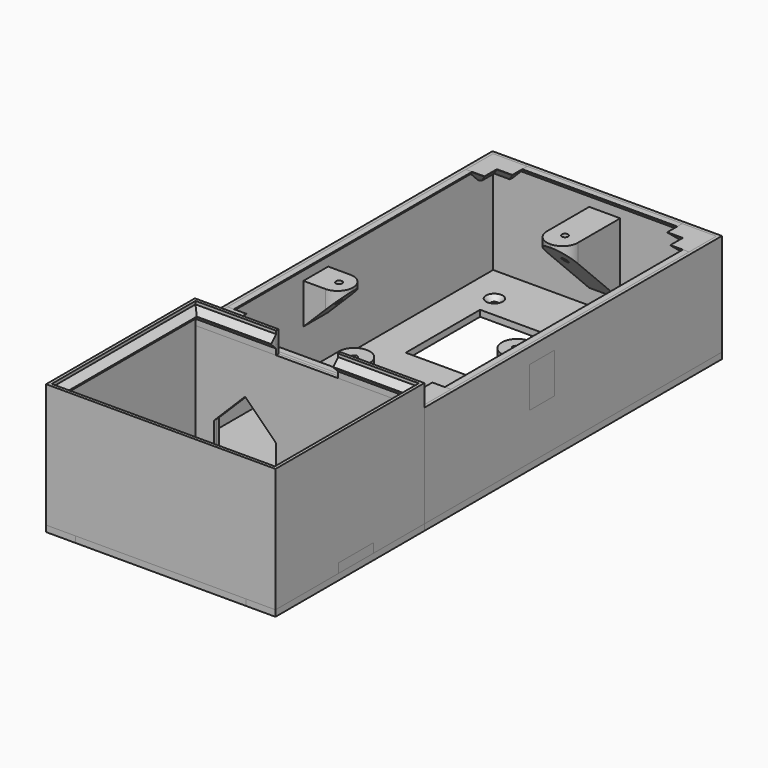
from build123d import *

# Parameters (mm, degrees)
BOX028_W                   = 72
BOX028_H                   = 2
BOX028_DEPTH               = 2
CHAMFER009_SIZE            = 1.99
BOX037_W                   = 26
BOX037_H                   = 16
BOX037_DEPTH               = 2
BOX031_W                   = 2
BOX031_H                   = 118
BOX031_DEPTH               = 2
CHAMFER008_SIZE            = 1.9
BOX030_W                   = 72
BOX030_H                   = 2
BOX030_DEPTH               = 2
CHAMFER028_SIZE            = 1.9
BOX029_W                   = 2
BOX029_H                   = 118
BOX029_DEPTH               = 2
CHAMFER010_SIZE            = 1.9
BOX046_W                   = 72
BOX046_H                   = 2
BOX046_DEPTH               = 2
CHAMFER011_SIZE            = 1.9
BOX024_W                   = 5
BOX024_H                   = 5
BOX024_DEPTH               = 5
BOX025_W                   = 11
BOX025_H                   = 11
BOX025_DEPTH               = 5
CHAMFER004_SIZE            = 4.9
CHAMFER013_SIZE            = 0.9
BOX048_W                   = 5
BOX048_H                   = 5
BOX048_DEPTH               = 5
BOX047_W                   = 11
BOX047_H                   = 11
BOX047_DEPTH               = 5
CHAMFER012_SIZE            = 4.9
CHAMFER012_PLACEMENT_ANGLE = 90
CHAMFER014_SIZE            = 0.9
BOX034_W                   = 5
BOX034_H                   = 5
BOX034_DEPTH               = 5
BOX035_W                   = 11
BOX035_H                   = 11
BOX035_DEPTH               = 5
CHAMFER015_SIZE            = 4.9
CHAMFER016_SIZE            = 0.9
CHAMFER016_PLACEMENT_ANGLE = 180
BOX049_W                   = 5
BOX049_H                   = 5
BOX049_DEPTH               = 5
BOX050_W                   = 11
BOX050_H                   = 11
BOX050_DEPTH               = 5
CHAMFER017_SIZE            = 4.9
CHAMFER018_SIZE            = 0.9
CHAMFER018_PLACEMENT_ANGLE = -90
BOX055_W                   = 20
BOX055_H                   = 10
BOX055_DEPTH               = 20
CHAMFER034_SIZE            = 9.99
BOX054_W                   = 20
BOX054_H                   = 10
BOX054_DEPTH               = 20
CHAMFER033_SIZE            = 9.99
BOX001_W                   = 72
BOX001_H                   = 118
BOX001_DEPTH               = 35
BOX_W                      = 74
BOX_H                      = 120
BOX_DEPTH                  = 35
BOX056_W                   = 20
BOX056_H                   = 10
BOX056_DEPTH               = 10
BOX039_W                   = 68
BOX039_H                   = 54
BOX039_DEPTH               = 4.1
BOX038_W                   = 74
BOX038_H                   = 60
BOX038_DEPTH               = 4.1
CHAMFER021_SIZE            = 2
CHAMFER022_SIZE            = 2
BOX033_W                   = 72
BOX033_H                   = 58
BOX033_DEPTH               = 42
BOX032_W                   = 74
BOX032_H                   = 60
BOX032_DEPTH               = 42
BOX045_W                   = 72
BOX045_H                   = 1
BOX045_DEPTH               = 4
CHAMFER027_SIZE            = 0.99
BOX061_W                   = 74
BOX061_H                   = 5
BOX061_DEPTH               = 2
BOX062_W                   = 74
BOX062_H                   = 5
BOX062_DEPTH               = 2
BOX074_W                   = 13
BOX074_H                   = 15
BOX074_DEPTH               = 10
BOX073_W                   = 13
BOX073_H                   = 15
BOX073_DEPTH               = 10
BOX072_W                   = 72
BOX072_H                   = 5
BOX072_DEPTH               = 10
CYLINDER011_R              = 1.2
CYLINDER011_DEPTH          = 10
CYLINDER010_R              = 1.2
CYLINDER010_DEPTH          = 10
CYLINDER001_R              = 2
CYLINDER001_DEPTH          = 10
CYLINDER_R                 = 2
CYLINDER_DEPTH             = 10
BOX058_W                   = 74
BOX058_H                   = 14
BOX058_DEPTH               = 5
CHAMFER036_SIZE            = 1.5
CHAMFER037_SIZE            = 1.5
CYLINDER002_R              = 1
CYLINDER002_DEPTH          = 40
BOX040_W                   = 10
BOX040_H                   = 23
BOX040_DEPTH               = 23
CHAMFER019_SIZE            = 22
FILLET001_R                = 4.9
CYLINDER004_R              = 1
CYLINDER004_DEPTH          = 40
BOX051_W                   = 13
BOX051_H                   = 10
BOX051_DEPTH               = 13
CHAMFER029_SIZE            = 12
FILLET002_R                = 4.9
CYLINDER005_R              = 1
CYLINDER005_DEPTH          = 40
BOX052_W                   = 13
BOX052_H                   = 10
BOX052_DEPTH               = 13
CHAMFER030_SIZE            = 12
FILLET003_R                = 4.9
CYLINDER003_R              = 1
CYLINDER003_DEPTH          = 40
BOX041_W                   = 10
BOX041_H                   = 23
BOX041_DEPTH               = 23
CHAMFER020_SIZE            = 22
FILLET004_R                = 4.9
BOX075_W                   = 10
BOX075_H                   = 10
BOX075_DEPTH               = 10
BOX059_W                   = 9.5
BOX059_H                   = 60
BOX059_DEPTH               = 2
BOX076_W                   = 10
BOX076_H                   = 10
BOX076_DEPTH               = 10
BOX060_W                   = 9.5
BOX060_H                   = 60
BOX060_DEPTH               = 2
CYLINDER017_R              = 1.2
CYLINDER017_DEPTH          = 10
CYLINDER016_R              = 1.2
CYLINDER016_DEPTH          = 10
BOX071_W                   = 50
BOX071_H                   = 30
BOX071_DEPTH               = 10
BOX070_W                   = 12
BOX070_H                   = 12
BOX070_DEPTH               = 10
BOX069_W                   = 12
BOX069_H                   = 12
BOX069_DEPTH               = 10
BOX068_W                   = 12
BOX068_H                   = 12
BOX068_DEPTH               = 10
BOX067_W                   = 12
BOX067_H                   = 12
BOX067_DEPTH               = 10
CYLINDER015_R              = 1.3
CYLINDER015_DEPTH          = 10
CYLINDER014_R              = 1.3
CYLINDER014_DEPTH          = 10
BOX066_W                   = 40
BOX066_H                   = 25
BOX066_DEPTH               = 10
CYLINDER013_R              = 1.2
CYLINDER013_DEPTH          = 10
CYLINDER012_R              = 1.2
CYLINDER012_DEPTH          = 10
BOX065_W                   = 74
BOX065_H                   = 120
BOX065_DEPTH               = 2
CHAMFER_SIZE               = 1.5
CHAMFER035_SIZE            = 1.5
FILLET_R                   = 5
CHAMFER038_SIZE            = 1.5
CHAMFER039_SIZE            = 1.5


with BuildPart() as chamfer009:
    # Box028 → Box028 (new body)
    with BuildSketch(Plane(origin=(1, 1, 33), x_dir=(1, 0, 0), z_dir=(0, 0, 1))):
        with Locations((36, 1)):
            Rectangle(BOX028_W, BOX028_H)
    extrude(amount=BOX028_DEPTH)

    # Chamfer009
    chamfer009_edges = [chamfer009.edges().sort_by_distance(p)[0] for p in [
        (37, 3, 33),
    ]]
    chamfer(chamfer009_edges, length=CHAMFER009_SIZE)


with BuildPart() as cube028:
    # Box037 → Box037 (new body)
    with BuildSketch(Plane(origin=(24, -38, 0), x_dir=(1, 0, 0), z_dir=(0, 0, 1))):
        with Locations((13, 8)):
            Rectangle(BOX037_W, BOX037_H)
    extrude(amount=BOX037_DEPTH)


with BuildPart() as chamfer008:
    # Box031 → Box031 (new body)
    with BuildSketch(Plane(origin=(71, 1, 33), x_dir=(1, 0, 0), z_dir=(0, 0, 1))):
        with Locations((1, 59)):
            Rectangle(BOX031_W, BOX031_H)
    extrude(amount=BOX031_DEPTH)

    # Chamfer008
    chamfer008_edges = [chamfer008.edges().sort_by_distance(p)[0] for p in [
        (71, 60, 33),
    ]]
    chamfer(chamfer008_edges, length=CHAMFER008_SIZE)


with BuildPart() as chamfer028:
    # Box030 → Box030 (new body)
    with BuildSketch(Plane(origin=(1, 117, 33), x_dir=(1, 0, 0), z_dir=(0, 0, 1))):
        with Locations((36, 1)):
            Rectangle(BOX030_W, BOX030_H)
    extrude(amount=BOX030_DEPTH)

    # Chamfer028
    chamfer028_edges = [chamfer028.edges().sort_by_distance(p)[0] for p in [
        (37, 117, 33),
    ]]
    chamfer(chamfer028_edges, length=CHAMFER028_SIZE)


with BuildPart() as chamfer010:
    # Box029 → Box029 (new body)
    with BuildSketch(Plane(origin=(1, 1, 33), x_dir=(1, 0, 0), z_dir=(0, 0, 1))):
        with Locations((1, 59)):
            Rectangle(BOX029_W, BOX029_H)
    extrude(amount=BOX029_DEPTH)

    # Chamfer010
    chamfer010_edges = [chamfer010.edges().sort_by_distance(p)[0] for p in [
        (3, 60, 33),
    ]]
    chamfer(chamfer010_edges, length=CHAMFER010_SIZE)


with BuildPart() as chamfer011:
    # Box046 → Box046 (new body)
    with BuildSketch(Plane(origin=(1, 1, 33), x_dir=(1, 0, 0), z_dir=(0, 0, 1))):
        with Locations((36, 1)):
            Rectangle(BOX046_W, BOX046_H)
    extrude(amount=BOX046_DEPTH)

    # Chamfer011
    chamfer011_edges = [chamfer011.edges().sort_by_distance(p)[0] for p in [
        (37, 3, 33),
    ]]
    chamfer(chamfer011_edges, length=CHAMFER011_SIZE)


with BuildPart() as cube019:
    # Box024 → Box024 (new body)
    with BuildSketch(Plane(origin=(63, 109, 30), x_dir=(1, 0, 0), z_dir=(0, 0, 1))):
        with Locations((2.5, 2.5)):
            Rectangle(BOX024_W, BOX024_H)
    extrude(amount=BOX024_DEPTH)


with BuildPart() as chamfer013:
    # Box025 → Box025 (new body)
    with BuildSketch(Plane(origin=(63, 109, 30), x_dir=(1, 0, 0), z_dir=(0, 0, 1))):
        with Locations((5.5, 5.5)):
            Rectangle(BOX025_W, BOX025_H)
    extrude(amount=BOX025_DEPTH)

    # Cut012: cut Cube019
    add(cube019.part, mode=Mode.SUBTRACT)

    # Chamfer004
    chamfer004_edges = [chamfer013.edges().sort_by_distance(p)[0] for p in [
        (63, 117, 30),
        (65.5, 114, 30),
        (71, 109, 30),
        (68, 111.5, 30),
    ]]
    chamfer(chamfer004_edges, length=CHAMFER004_SIZE)


with BuildPart() as chamfer013_1:
    # Chamfer004 placement: moved
    add(chamfer013.part.moved(Location((-1, -1, 0))))

    # Chamfer013
    chamfer013_edges = [chamfer013_1.edges().sort_by_distance(p)[0] for p in [
        (69.4, 117.9, 30),
        (71.9, 115.4, 30),
    ]]
    chamfer(chamfer013_edges, length=CHAMFER013_SIZE)


with BuildPart() as cube037:
    # Box048 → Box048 (new body)
    with BuildSketch(Plane(origin=(63, 109, 30), x_dir=(1, 0, 0), z_dir=(0, 0, 1))):
        with Locations((2.5, 2.5)):
            Rectangle(BOX048_W, BOX048_H)
    extrude(amount=BOX048_DEPTH)


with BuildPart() as chamfer014:
    # Box047 → Box047 (new body)
    with BuildSketch(Plane(origin=(63, 109, 30), x_dir=(1, 0, 0), z_dir=(0, 0, 1))):
        with Locations((5.5, 5.5)):
            Rectangle(BOX047_W, BOX047_H)
    extrude(amount=BOX047_DEPTH)

    # Cut013: cut Cube037
    add(cube037.part, mode=Mode.SUBTRACT)

    # Chamfer012
    chamfer012_edges = [chamfer014.edges().sort_by_distance(p)[0] for p in [
        (63, 117, 30),
        (65.5, 114, 30),
        (71, 109, 30),
        (68, 111.5, 30),
    ]]
    chamfer(chamfer012_edges, length=CHAMFER012_SIZE)


with BuildPart() as chamfer014_1:
    # Chamfer012 placement: moved
    add(chamfer014.part.moved(Location((121, 45, 0))).rotate(Axis((121, 45, 0), (0, 0, 1)), CHAMFER012_PLACEMENT_ANGLE))

    # Chamfer014
    chamfer014_edges = [chamfer014_1.edges().sort_by_distance(p)[0] for p in [
        (2.1, 115.4, 30),
        (4.6, 117.9, 30),
    ]]
    chamfer(chamfer014_edges, length=CHAMFER014_SIZE)


with BuildPart() as cube029:
    # Box034 → Box034 (new body)
    with BuildSketch(Plane(origin=(63, 109, 30), x_dir=(1, 0, 0), z_dir=(0, 0, 1))):
        with Locations((2.5, 2.5)):
            Rectangle(BOX034_W, BOX034_H)
    extrude(amount=BOX034_DEPTH)


with BuildPart() as chamfer016:
    # Box035 → Box035 (new body)
    with BuildSketch(Plane(origin=(63, 109, 30), x_dir=(1, 0, 0), z_dir=(0, 0, 1))):
        with Locations((5.5, 5.5)):
            Rectangle(BOX035_W, BOX035_H)
    extrude(amount=BOX035_DEPTH)

    # Cut020: cut Cube029
    add(cube029.part, mode=Mode.SUBTRACT)

    # Chamfer015
    chamfer015_edges = [chamfer016.edges().sort_by_distance(p)[0] for p in [
        (63, 117, 30),
        (65.5, 114, 30),
        (71, 109, 30),
        (68, 111.5, 30),
    ]]
    chamfer(chamfer015_edges, length=CHAMFER015_SIZE)


with BuildPart() as chamfer016_1:
    # Chamfer015 placement: moved
    add(chamfer016.part.moved(Location((-1, -1, 0))))

    # Chamfer016
    chamfer016_edges = [chamfer016_1.edges().sort_by_distance(p)[0] for p in [
        (69.4, 117.9, 30),
        (71.9, 115.4, 30),
    ]]
    chamfer(chamfer016_edges, length=CHAMFER016_SIZE)


with BuildPart() as chamfer016_2:
    # Chamfer016 placement: moved
    add(chamfer016_1.part.moved(Location((74, 120, 0))).rotate(Axis((74, 120, 0), (0, 0, 1)), CHAMFER016_PLACEMENT_ANGLE))


with BuildPart() as cube031:
    # Box049 → Box049 (new body)
    with BuildSketch(Plane(origin=(63, 109, 30), x_dir=(1, 0, 0), z_dir=(0, 0, 1))):
        with Locations((2.5, 2.5)):
            Rectangle(BOX049_W, BOX049_H)
    extrude(amount=BOX049_DEPTH)


with BuildPart() as chamfer018:
    # Box050 → Box050 (new body)
    with BuildSketch(Plane(origin=(63, 109, 30), x_dir=(1, 0, 0), z_dir=(0, 0, 1))):
        with Locations((5.5, 5.5)):
            Rectangle(BOX050_W, BOX050_H)
    extrude(amount=BOX050_DEPTH)

    # Cut015: cut Cube031
    add(cube031.part, mode=Mode.SUBTRACT)

    # Chamfer017
    chamfer017_edges = [chamfer018.edges().sort_by_distance(p)[0] for p in [
        (63, 117, 30),
        (65.5, 114, 30),
        (71, 109, 30),
        (68, 111.5, 30),
    ]]
    chamfer(chamfer017_edges, length=CHAMFER017_SIZE)


with BuildPart() as chamfer018_1:
    # Chamfer017 placement: moved
    add(chamfer018.part.moved(Location((-1, -1, 0))))

    # Chamfer018
    chamfer018_edges = [chamfer018_1.edges().sort_by_distance(p)[0] for p in [
        (69.4, 117.9, 30),
        (71.9, 115.4, 30),
    ]]
    chamfer(chamfer018_edges, length=CHAMFER018_SIZE)


with BuildPart() as chamfer018_2:
    # Chamfer018 placement: moved
    add(chamfer018_1.part.moved(Location((-46, 74, 0))).rotate(Axis((-46, 74, 0), (0, 0, 1)), CHAMFER018_PLACEMENT_ANGLE))


with BuildPart() as chamfer034:
    # Box055 → Box055 (new body)
    with BuildSketch(Plane(origin=(47, -5, 0), x_dir=(1, 0, 0), z_dir=(0, 0, 1))):
        with Locations((10, 5)):
            Rectangle(BOX055_W, BOX055_H)
    extrude(amount=BOX055_DEPTH)

    # Chamfer034
    chamfer034_edges = [chamfer034.edges().sort_by_distance(p)[0] for p in [
        (47, 0, 20),
        (67, 0, 20),
    ]]
    chamfer(chamfer034_edges, length=CHAMFER034_SIZE)


with BuildPart() as chamfer033:
    # Box054 → Box054 (new body)
    with BuildSketch(Plane(origin=(7, -5, 0), x_dir=(1, 0, 0), z_dir=(0, 0, 1))):
        with Locations((10, 5)):
            Rectangle(BOX054_W, BOX054_H)
    extrude(amount=BOX054_DEPTH)

    # Chamfer033
    chamfer033_edges = [chamfer033.edges().sort_by_distance(p)[0] for p in [
        (7, 0, 20),
        (27, 0, 20),
    ]]
    chamfer(chamfer033_edges, length=CHAMFER033_SIZE)


with BuildPart() as obj1:
    # Box001 → Box001 (new body)
    with BuildSketch(Plane(origin=(1, 1, 0), x_dir=(1, 0, 0), z_dir=(0, 0, 1))):
        with Locations((36, 59)):
            Rectangle(BOX001_W, BOX001_H)
    extrude(amount=BOX001_DEPTH)


with BuildPart() as cut031:
    # Box → Box (new body)
    with BuildSketch(Plane.XY):
        with Locations((37, 60)):
            Rectangle(BOX_W, BOX_H)
    extrude(amount=BOX_DEPTH)

    # Cut: cut obj1
    add(obj1.part, mode=Mode.SUBTRACT)

    # Cut029: cut Chamfer033
    add(chamfer033.part, mode=Mode.SUBTRACT)

    # Cut030: cut Chamfer033
    add(chamfer033.part, mode=Mode.SUBTRACT)

    # Cut031: cut Chamfer034
    add(chamfer034.part, mode=Mode.SUBTRACT)


with BuildPart() as cube043:
    # Box056 → Box056 (new body)
    with BuildSketch(Plane(origin=(27, -5, 35), x_dir=(1, 0, 0), z_dir=(0, 0, 1))):
        with Locations((10, 5)):
            Rectangle(BOX056_W, BOX056_H)
    extrude(amount=BOX056_DEPTH)


with BuildPart() as obj2:
    # Box039 → Box039 (new body)
    with BuildSketch(Plane(origin=(3, -57, 0), x_dir=(1, 0, 0), z_dir=(0, 0, 1))):
        with Locations((34, 27)):
            Rectangle(BOX039_W, BOX039_H)
    extrude(amount=BOX039_DEPTH)


with BuildPart() as cut034:
    # Box038 → Box038 (new body)
    with BuildSketch(Plane(origin=(0, -60, 0), x_dir=(1, 0, 0), z_dir=(0, 0, 1))):
        with Locations((37, 30)):
            Rectangle(BOX038_W, BOX038_H)
    extrude(amount=BOX038_DEPTH)

    # Cut019: cut obj2
    add(obj2.part, mode=Mode.SUBTRACT)


with BuildPart() as cut034_1:
    # Cut019 placement: moved
    add(cut034.part.moved(Location((0, 0, 36.9))))

    # Chamfer021
    chamfer021_edges = [cut034_1.edges().sort_by_distance(p)[0] for p in [
        (37, -3, 41),
        (3, -30, 41),
        (37, -57, 41),
        (71, -30, 41),
    ]]
    chamfer(chamfer021_edges, length=CHAMFER021_SIZE)

    # Chamfer022
    chamfer022_edges = [cut034_1.edges().sort_by_distance(p)[0] for p in [
        (37, -3, 36.9),
        (3, -30, 36.9),
        (71, -30, 36.9),
        (37, -57, 36.9),
    ]]
    chamfer(chamfer022_edges, length=CHAMFER022_SIZE)

    # Cut034: cut Cube043
    add(cube043.part, mode=Mode.SUBTRACT)


with BuildPart() as obj3:
    # Box033 → Box033 (new body)
    with BuildSketch(Plane(origin=(1, -59, 0), x_dir=(1, 0, 0), z_dir=(0, 0, 1))):
        with Locations((36, 29)):
            Rectangle(BOX033_W, BOX033_H)
    extrude(amount=BOX033_DEPTH)


with BuildPart() as cut035:
    # Box032 → Box032 (new body)
    with BuildSketch(Plane(origin=(0, -60, 0), x_dir=(1, 0, 0), z_dir=(0, 0, 1))):
        with Locations((37, 30)):
            Rectangle(BOX032_W, BOX032_H)
    extrude(amount=BOX032_DEPTH)

    # Cut014: cut obj3
    add(obj3.part, mode=Mode.SUBTRACT)

    # Cut032: cut Chamfer033
    add(chamfer033.part, mode=Mode.SUBTRACT)

    # Cut033: cut Chamfer034
    add(chamfer034.part, mode=Mode.SUBTRACT)

    # Cut035: cut Cube043
    add(cube043.part, mode=Mode.SUBTRACT)


with BuildPart() as cut036:
    # Box045 → Box045 (new body)
    with BuildSketch(Plane(origin=(1, -1, 34), x_dir=(1, 0, 0), z_dir=(0, 0, 1))):
        with Locations((36, 0.5)):
            Rectangle(BOX045_W, BOX045_H)
    extrude(amount=BOX045_DEPTH)

    # Chamfer027
    chamfer027_edges = [cut036.edges().sort_by_distance(p)[0] for p in [
        (37, -1, 34),
    ]]
    chamfer(chamfer027_edges, length=CHAMFER027_SIZE)

    # Cut036: cut Cube043
    add(cube043.part, mode=Mode.SUBTRACT)


with BuildPart() as cube048:
    # Box061 → Box061 (new body)
    with BuildSketch(Plane(origin=(0, -5, 0), x_dir=(1, 0, 0), z_dir=(0, 0, 1))):
        with Locations((37, 2.5)):
            Rectangle(BOX061_W, BOX061_H)
    extrude(amount=BOX061_DEPTH)


with BuildPart() as cube049:
    # Box062 → Box062 (new body)
    with BuildSketch(Plane(origin=(0, -60, 0), x_dir=(1, 0, 0), z_dir=(0, 0, 1))):
        with Locations((37, 2.5)):
            Rectangle(BOX062_W, BOX062_H)
    extrude(amount=BOX062_DEPTH)


with BuildPart() as cube060:
    # Box074 → Box074 (new body)
    with BuildSketch(Plane(origin=(60, -35, 2), x_dir=(1, 0, 0), z_dir=(0, 0, 1))):
        with Locations((6.5, 7.5)):
            Rectangle(BOX074_W, BOX074_H)
    extrude(amount=BOX074_DEPTH)


with BuildPart() as cube059:
    # Box073 → Box073 (new body)
    with BuildSketch(Plane(origin=(1, -35, 2), x_dir=(1, 0, 0), z_dir=(0, 0, 1))):
        with Locations((6.5, 7.5)):
            Rectangle(BOX073_W, BOX073_H)
    extrude(amount=BOX073_DEPTH)


with BuildPart() as cube058:
    # Box072 → Box072 (new body)
    with BuildSketch(Plane(origin=(1, -25.5, 2), x_dir=(1, 0, 0), z_dir=(0, 0, 1))):
        with Locations((36, 2.5)):
            Rectangle(BOX072_W, BOX072_H)
    extrude(amount=BOX072_DEPTH)


with BuildPart() as cylinder011:
    # Cylinder011 → Cylinder011 (new body)
    with BuildSketch(Plane(origin=(63, -25, 0), x_dir=(1, 0, 0), z_dir=(0, 0, 1))):
        Circle(CYLINDER011_R)
    extrude(amount=CYLINDER011_DEPTH)


with BuildPart() as cylinder010:
    # Cylinder010 → Cylinder010 (new body)
    with BuildSketch(Plane(origin=(11, -25, 0), x_dir=(1, 0, 0), z_dir=(0, 0, 1))):
        Circle(CYLINDER010_R)
    extrude(amount=CYLINDER010_DEPTH)


with BuildPart() as cylinder001:
    # Cylinder001 → Cylinder001 (new body)
    with BuildSketch(Plane(origin=(56.25, -30, 0), x_dir=(1, 0, 0), z_dir=(0, 0, 1))):
        Circle(CYLINDER001_R)
    extrude(amount=CYLINDER001_DEPTH)


with BuildPart() as cylinder:
    # Cylinder → Cylinder (new body)
    with BuildSketch(Plane(origin=(17.75, -30, 0), x_dir=(1, 0, 0), z_dir=(0, 0, 1))):
        Circle(CYLINDER_R)
    extrude(amount=CYLINDER_DEPTH)


with BuildPart() as chamfer037:
    # Box058 → Box058 (new body)
    with BuildSketch(Plane(origin=(0, -34.5, 0), x_dir=(1, 0, 0), z_dir=(0, 0, 1))):
        with Locations((37, 7)):
            Rectangle(BOX058_W, BOX058_H)
    extrude(amount=BOX058_DEPTH)

    # Cut037: cut Cylinder
    add(cylinder.part, mode=Mode.SUBTRACT)

    # Cut038: cut Cylinder001
    add(cylinder001.part, mode=Mode.SUBTRACT)

    # Cut039: cut Cylinder010
    add(cylinder010.part, mode=Mode.SUBTRACT)

    # Cut040: cut Cylinder011
    add(cylinder011.part, mode=Mode.SUBTRACT)

    # Cut051: cut Cube058
    add(cube058.part, mode=Mode.SUBTRACT)

    # Cut052: cut Cube059
    add(cube059.part, mode=Mode.SUBTRACT)

    # Chamfer036
    chamfer036_edges = [chamfer037.edges().sort_by_distance(p)[0] for p in [
        (11, -26.2, 2),
        (12.1724, -25.255885, 2),
        (10.744115, -23.8276, 2),
    ]]
    chamfer(chamfer036_edges, length=CHAMFER036_SIZE)

    # Cut053: cut Cube060
    add(cube060.part, mode=Mode.SUBTRACT)

    # Chamfer037
    chamfer037_edges = [chamfer037.edges().sort_by_distance(p)[0] for p in [
        (63, -26.2, 2),
        (64.1724, -25.255885, 2),
        (62.744115, -23.8276, 2),
    ]]
    chamfer(chamfer037_edges, length=CHAMFER037_SIZE)


with BuildPart() as cylinder002:
    # Cylinder002 → Cylinder002 (new body)
    with BuildSketch(Plane(origin=(37, 18, 0), x_dir=(1, 0, 0), z_dir=(0, 0, 1))):
        Circle(CYLINDER002_R)
    extrude(amount=CYLINDER002_DEPTH)


with BuildPart() as fillet001:
    # Box040 → Box040 (new body)
    with BuildSketch(Plane(origin=(32, 0, 7), x_dir=(1, 0, 0), z_dir=(0, 0, 1))):
        with Locations((5, 11.5)):
            Rectangle(BOX040_W, BOX040_H)
    extrude(amount=BOX040_DEPTH)

    # Chamfer019
    chamfer019_edges = [fillet001.edges().sort_by_distance(p)[0] for p in [
        (37, 23, 7),
    ]]
    chamfer(chamfer019_edges, length=CHAMFER019_SIZE)

    # Cut021: cut Cylinder002
    add(cylinder002.part, mode=Mode.SUBTRACT)

    # Fillet001
    fillet001_edges = [fillet001.edges().sort_by_distance(p)[0] for p in [
        (32, 23, 29.5),
        (42, 23, 29.5),
    ]]
    fillet(fillet001_edges, radius=FILLET001_R)


with BuildPart() as cylinder004:
    # Cylinder004 → Cylinder004 (new body)
    with BuildSketch(Plane(origin=(8.5, 47.5, 0), x_dir=(1, 0, 0), z_dir=(0, 0, 1))):
        Circle(CYLINDER004_R)
    extrude(amount=CYLINDER004_DEPTH)


with BuildPart() as fillet002:
    # Box051 → Box051 (new body)
    with BuildSketch(Plane(origin=(0, 42.5, 17), x_dir=(1, 0, 0), z_dir=(0, 0, 1))):
        with Locations((6.5, 5)):
            Rectangle(BOX051_W, BOX051_H)
    extrude(amount=BOX051_DEPTH)

    # Chamfer029
    chamfer029_edges = [fillet002.edges().sort_by_distance(p)[0] for p in [
        (13, 47.5, 17),
    ]]
    chamfer(chamfer029_edges, length=CHAMFER029_SIZE)

    # Cut018: cut Cylinder004
    add(cylinder004.part, mode=Mode.SUBTRACT)

    # Fillet002
    fillet002_edges = [fillet002.edges().sort_by_distance(p)[0] for p in [
        (13, 42.5, 29.5),
        (13, 52.5, 29.5),
    ]]
    fillet(fillet002_edges, radius=FILLET002_R)


with BuildPart() as cylinder005:
    # Cylinder005 → Cylinder005 (new body)
    with BuildSketch(Plane(origin=(65.5, 47.5, 0), x_dir=(1, 0, 0), z_dir=(0, 0, 1))):
        Circle(CYLINDER005_R)
    extrude(amount=CYLINDER005_DEPTH)


with BuildPart() as fillet003:
    # Box052 → Box052 (new body)
    with BuildSketch(Plane(origin=(61, 42.5, 17), x_dir=(1, 0, 0), z_dir=(0, 0, 1))):
        with Locations((6.5, 5)):
            Rectangle(BOX052_W, BOX052_H)
    extrude(amount=BOX052_DEPTH)

    # Chamfer030
    chamfer030_edges = [fillet003.edges().sort_by_distance(p)[0] for p in [
        (61, 47.5, 17),
    ]]
    chamfer(chamfer030_edges, length=CHAMFER030_SIZE)

    # Cut022: cut Cylinder005
    add(cylinder005.part, mode=Mode.SUBTRACT)

    # Fillet003
    fillet003_edges = [fillet003.edges().sort_by_distance(p)[0] for p in [
        (61, 42.5, 29.5),
        (61, 52.5, 29.5),
    ]]
    fillet(fillet003_edges, radius=FILLET003_R)


with BuildPart() as cylinder003:
    # Cylinder003 → Cylinder003 (new body)
    with BuildSketch(Plane(origin=(37, 103, 0), x_dir=(1, 0, 0), z_dir=(0, 0, 1))):
        Circle(CYLINDER003_R)
    extrude(amount=CYLINDER003_DEPTH)


with BuildPart() as fillet004:
    # Box041 → Box041 (new body)
    with BuildSketch(Plane(origin=(32, 97, 7), x_dir=(1, 0, 0), z_dir=(0, 0, 1))):
        with Locations((5, 11.5)):
            Rectangle(BOX041_W, BOX041_H)
    extrude(amount=BOX041_DEPTH)

    # Chamfer020
    chamfer020_edges = [fillet004.edges().sort_by_distance(p)[0] for p in [
        (37, 97, 7),
    ]]
    chamfer(chamfer020_edges, length=CHAMFER020_SIZE)

    # Cut023: cut Cylinder003
    add(cylinder003.part, mode=Mode.SUBTRACT)

    # Fillet004
    fillet004_edges = [fillet004.edges().sort_by_distance(p)[0] for p in [
        (32, 97, 29.5),
        (42, 97, 29.5),
    ]]
    fillet(fillet004_edges, radius=FILLET004_R)


with BuildPart() as cube061:
    # Box075 → Box075 (new body)
    with BuildSketch(Plane(origin=(3, -30.5, 0), x_dir=(1, 0, 0), z_dir=(0, 0, 1))):
        with Locations((5, 5)):
            Rectangle(BOX075_W, BOX075_H)
    extrude(amount=BOX075_DEPTH)


with BuildPart() as cut054:
    # Box059 → Box059 (new body)
    with BuildSketch(Plane(origin=(0, -60, 0), x_dir=(1, 0, 0), z_dir=(0, 0, 1))):
        with Locations((4.75, 30)):
            Rectangle(BOX059_W, BOX059_H)
    extrude(amount=BOX059_DEPTH)

    # Cut054: cut Cube061
    add(cube061.part, mode=Mode.SUBTRACT)


with BuildPart() as cube062:
    # Box076 → Box076 (new body)
    with BuildSketch(Plane(origin=(61, -30.5, 0), x_dir=(1, 0, 0), z_dir=(0, 0, 1))):
        with Locations((5, 5)):
            Rectangle(BOX076_W, BOX076_H)
    extrude(amount=BOX076_DEPTH)


with BuildPart() as cut055:
    # Box060 → Box060 (new body)
    with BuildSketch(Plane(origin=(64.5, -60, 0), x_dir=(1, 0, 0), z_dir=(0, 0, 1))):
        with Locations((4.75, 30)):
            Rectangle(BOX060_W, BOX060_H)
    extrude(amount=BOX060_DEPTH)

    # Cut055: cut Cube062
    add(cube062.part, mode=Mode.SUBTRACT)


with BuildPart() as cylinder017:
    # Cylinder017 → Cylinder017 (new body)
    with BuildSketch(Plane(origin=(63, 107, 0), x_dir=(1, 0, 0), z_dir=(0, 0, 1))):
        Circle(CYLINDER017_R)
    extrude(amount=CYLINDER017_DEPTH)


with BuildPart() as cylinder016:
    # Cylinder016 → Cylinder016 (new body)
    with BuildSketch(Plane(origin=(11, 107, 0), x_dir=(1, 0, 0), z_dir=(0, 0, 1))):
        Circle(CYLINDER016_R)
    extrude(amount=CYLINDER016_DEPTH)


with BuildPart() as obj1_oben:
    # Box071 → Box071 (new body)
    with BuildSketch(Plane(origin=(12, 70, 0), x_dir=(1, 0, 0), z_dir=(0, 0, 1))):
        with Locations((25, 15)):
            Rectangle(BOX071_W, BOX071_H)
    extrude(amount=BOX071_DEPTH)


with BuildPart() as cube056:
    # Box070 → Box070 (new body)
    with BuildSketch(Plane(origin=(45, 16, 0), x_dir=(1, 0, 0), z_dir=(0, 0, 1))):
        with Locations((6, 6)):
            Rectangle(BOX070_W, BOX070_H)
    extrude(amount=BOX070_DEPTH)


with BuildPart() as cube055:
    # Box069 → Box069 (new body)
    with BuildSketch(Plane(origin=(17, 16, 0), x_dir=(1, 0, 0), z_dir=(0, 0, 1))):
        with Locations((6, 6)):
            Rectangle(BOX069_W, BOX069_H)
    extrude(amount=BOX069_DEPTH)


with BuildPart() as cube054:
    # Box068 → Box068 (new body)
    with BuildSketch(Plane(origin=(45, 41, 0), x_dir=(1, 0, 0), z_dir=(0, 0, 1))):
        with Locations((6, 6)):
            Rectangle(BOX068_W, BOX068_H)
    extrude(amount=BOX068_DEPTH)


with BuildPart() as cube053:
    # Box067 → Box067 (new body)
    with BuildSketch(Plane(origin=(17, 41, 0), x_dir=(1, 0, 0), z_dir=(0, 0, 1))):
        with Locations((6, 6)):
            Rectangle(BOX067_W, BOX067_H)
    extrude(amount=BOX067_DEPTH)


with BuildPart() as cylinder015:
    # Cylinder015 → Cylinder015 (new body)
    with BuildSketch(Plane(origin=(37, 52, 0), x_dir=(1, 0, 0), z_dir=(0, 0, 1))):
        Circle(CYLINDER015_R)
    extrude(amount=CYLINDER015_DEPTH)


with BuildPart() as cylinder014:
    # Cylinder014 → Cylinder014 (new body)
    with BuildSketch(Plane(origin=(37, 17, 0), x_dir=(1, 0, 0), z_dir=(0, 0, 1))):
        Circle(CYLINDER014_R)
    extrude(amount=CYLINDER014_DEPTH)


with BuildPart() as cube052:
    # Box066 → Box066 (new body)
    with BuildSketch(Plane(origin=(17, 22, 0), x_dir=(1, 0, 0), z_dir=(0, 0, 1))):
        with Locations((20, 12.5)):
            Rectangle(BOX066_W, BOX066_H)
    extrude(amount=BOX066_DEPTH)


with BuildPart() as cylinder013:
    # Cylinder013 → Cylinder013 (new body)
    with BuildSketch(Plane(origin=(63, 35, 0), x_dir=(1, 0, 0), z_dir=(0, 0, 1))):
        Circle(CYLINDER013_R)
    extrude(amount=CYLINDER013_DEPTH)


with BuildPart() as cylinder012:
    # Cylinder012 → Cylinder012 (new body)
    with BuildSketch(Plane(origin=(11, 35, 0), x_dir=(1, 0, 0), z_dir=(0, 0, 1))):
        Circle(CYLINDER012_R)
    extrude(amount=CYLINDER012_DEPTH)


with BuildPart() as chamfer039:
    # Box065 → Box065 (new body)
    with BuildSketch(Plane.XY):
        with Locations((37, 60)):
            Rectangle(BOX065_W, BOX065_H)
    extrude(amount=BOX065_DEPTH)

    # Cut041: cut Cylinder012
    add(cylinder012.part, mode=Mode.SUBTRACT)

    # Cut042: cut Cylinder013
    add(cylinder013.part, mode=Mode.SUBTRACT)

    # Cut043: cut Cube052
    add(cube052.part, mode=Mode.SUBTRACT)

    # Cut044: cut Cylinder014
    add(cylinder014.part, mode=Mode.SUBTRACT)

    # Cut045: cut Cylinder015
    add(cylinder015.part, mode=Mode.SUBTRACT)

    # Cut046: cut Cube053
    add(cube053.part, mode=Mode.SUBTRACT)

    # Cut047: cut Cube054
    add(cube054.part, mode=Mode.SUBTRACT)

    # Cut048: cut Cube055
    add(cube055.part, mode=Mode.SUBTRACT)

    # Cut049: cut Cube056
    add(cube056.part, mode=Mode.SUBTRACT)

    # Cut050: cut obj1_oben
    add(obj1_oben.part, mode=Mode.SUBTRACT)

    # Chamfer
    chamfer_edges = [chamfer039.edges().sort_by_distance(p)[0] for p in [
        (61.8, 35, 2),
    ]]
    chamfer(chamfer_edges, length=CHAMFER_SIZE)

    # Chamfer035
    chamfer035_edges = [chamfer039.edges().sort_by_distance(p)[0] for p in [
        (9.8, 35, 2),
    ]]
    chamfer(chamfer035_edges, length=CHAMFER035_SIZE)

    # Fillet
    fillet_edges = [chamfer039.edges().sort_by_distance(p)[0] for p in [
        (45, 47, 1),
        (29, 47, 1),
        (45, 22, 1),
        (29, 22, 1),
    ]]
    fillet(fillet_edges, radius=FILLET_R)

    # Cut056: cut Cylinder016
    add(cylinder016.part, mode=Mode.SUBTRACT)

    # Cut057: cut Cylinder017
    add(cylinder017.part, mode=Mode.SUBTRACT)

    # Chamfer038
    chamfer038_edges = [chamfer039.edges().sort_by_distance(p)[0] for p in [
        (9.8, 107, 2),
    ]]
    chamfer(chamfer038_edges, length=CHAMFER038_SIZE)

    # Chamfer039
    chamfer039_edges = [chamfer039.edges().sort_by_distance(p)[0] for p in [
        (61.8, 107, 2),
    ]]
    chamfer(chamfer039_edges, length=CHAMFER039_SIZE)


solid = Compound([chamfer009.part, cube028.part, chamfer008.part, chamfer028.part, chamfer010.part, chamfer011.part, chamfer013_1.part, chamfer014_1.part, chamfer016_2.part, chamfer018_2.part, cut031.part, cut034_1.part, cut035.part, cut036.part, cube048.part, cube049.part, chamfer037.part, fillet001.part, fillet002.part, fillet003.part, fillet004.part, cut054.part, cut055.part, chamfer039.part])
